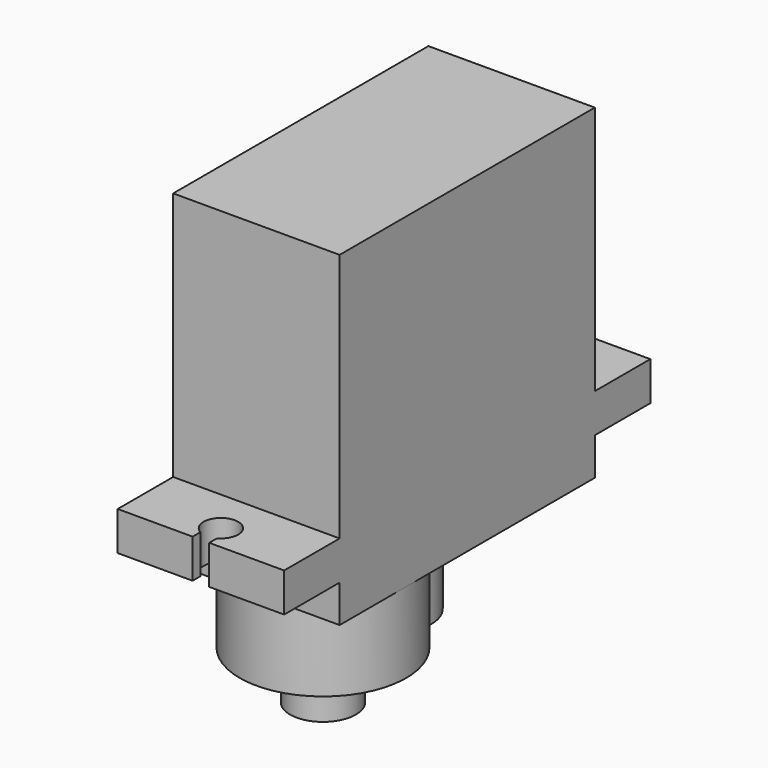
from build123d import *

# Parameters (mm, degrees)
SKETCH063_W             = 23
SKETCH063_H             = 12
PAD032_DEPTH            = 23.5
SKETCH064_W             = 5
SKETCH064_H             = 12
PAD033_DEPTH            = 2.8
POCKET026_DEPTH         = 5
PAD034_DEPTH            = 5.8
SKETCH067_R             = 2.375
SKETCH067_R_2           = 1.2
PAD035_DEPTH            = 3.5
BODY010_ROLL_ANGLE      = -90
BODY010_PLACEMENT_ANGLE = 90


with BuildPart() as part:
    # Sketch063 → Pad032 (new body)
    with BuildSketch(Plane.XZ):
        with Locations((11.5, 6)):
            Rectangle(SKETCH063_W, SKETCH063_H)
    extrude(amount=-PAD032_DEPTH)

    # Sketch064 → Pad033 (join)
    with BuildSketch(Plane.XZ.offset(-18)):
        with Locations((-2.5, 6)):
            Rectangle(SKETCH064_W, SKETCH064_H)
        with Locations((25.5, 6)):
            Rectangle(SKETCH064_W, SKETCH064_H)
    extrude(amount=-PAD033_DEPTH)

    # Sketch065 → Pocket026 (cut)
    with BuildSketch(Plane(origin=(-3.2, 20.8, 6), x_dir=(1, 0, 0), z_dir=(0, -1, 0))):
        with BuildLine():
            ThreePointArc((-1.096586, -0.6), (1.25, 0), (-1.096586, 0.6))
            Line((-1.8, 0.6), (-1.096586, 0.6))
            Line((-1.8, 0), (-1.8, 0.6))
            Line((-1.8, 0), (-1.8, -0.6))
            Line((-1.8, -0.6), (-1.096586, -0.6))
        make_face()
        with BuildLine():
            ThreePointArc((30.496586, 0.6), (28.15, 0), (30.496586, -0.6))
            Line((31.2, -0.6), (30.496586, -0.6))
            Line((31.2, 0), (31.2, -0.6))
            Line((31.2, 0), (31.2, 0.6))
            Line((31.2, 0.6), (30.496586, 0.6))
        make_face()
    extrude(amount=POCKET026_DEPTH, mode=Mode.SUBTRACT)

    # Sketch066 → Pad034 (join)
    with BuildSketch(Plane(origin=(6, 23.5, 6), x_dir=(1, 0, 0), z_dir=(0, -1, 0))):
        with BuildLine():
            ThreePointArc((5.25, 2.904738), (-6, 0), (5.25, -2.904738))
            ThreePointArc((5.25, -2.904738), (9, 0), (5.25, 2.904738))
        make_face()
    extrude(amount=-PAD034_DEPTH)

    # Sketch067 → Pad035 (join)
    with BuildSketch(Plane(origin=(6, 29.3, 6), x_dir=(1, 0, 0), z_dir=(0, -1, 0))):
        Circle(SKETCH067_R)
        Circle(SKETCH067_R_2, mode=Mode.SUBTRACT)
    extrude(amount=-PAD035_DEPTH)


with BuildPart() as part_1:
    # Body010 roll: moved
    add(part.part.rotate(Axis((0, 0, 0), (1, 0, 0)), BODY010_ROLL_ANGLE))


with BuildPart() as part_2:
    # Body010 placement: moved
    add(part_1.part.moved(Location((5, -17, 34.4))).rotate(Axis((5, -17, 34.4), (0, 0, 1)), BODY010_PLACEMENT_ANGLE))


solid = part_2.part
